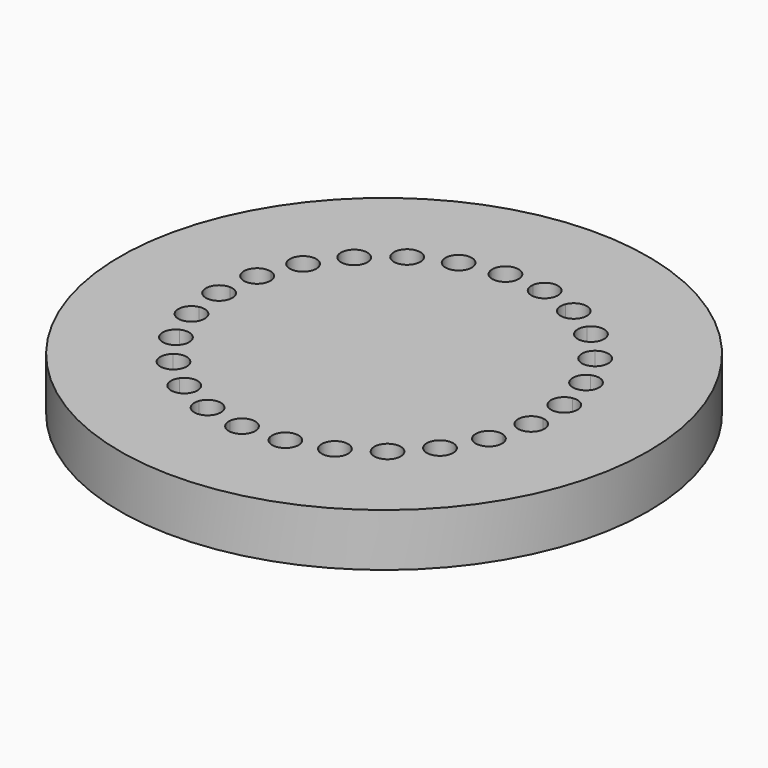
from build123d import *

# Parameters (mm, degrees)
F0_R     = 5080
F1_DEPTH = 508


with BuildPart() as f1:
    # F0 (on Top) → F1 (new body, symmetric)
    with BuildSketch(Plane.XY):
        Circle(F0_R)
        with BuildLine():
            ThreePointArc((3171.693455, 144.864175), (3174.173256, 72.450953), (3175, 0))
            ThreePointArc((3175, 0), (3174.173256, -72.450953), (3171.693455, -144.864175))
            ThreePointArc((3171.693455, -144.864175), (3337.094127, -226.182087), (3403.964177, -397.933017))
            ThreePointArc((3403.964177, -397.933017), (3314.092452, -591.78324), (3108.075128, -648.455087))
            ThreePointArc((3108.075128, -648.455087), (3075.251537, -789.590392), (3036.022617, -929.081088))
            ThreePointArc((3036.022617, -929.081088), (3159.220817, -1021.852435), (3206.040343, -1168.795455))
            ThreePointArc((3206.040343, -1168.795455), (3090.578542, -1381.687839), (2849.16501, -1401.029531))
            ThreePointArc((2849.16501, -1401.029531), (2782.273709, -1529.567915), (2709.587313, -1654.920419))
            ThreePointArc((2709.587313, -1654.920419), (2792.592595, -1746.400444), (2822.628957, -1866.218176))
            ThreePointArc((2822.628957, -1866.218176), (2679.392251, -2094.795281), (2411.231376, -2065.572136))
            ThreePointArc((2411.231376, -2065.572136), (2314.475392, -2173.437061), (2212.898672, -2276.775014))
            ThreePointArc((2212.898672, -2276.775014), (2261.035929, -2355.5767), (2277.821167, -2446.379546))
            ThreePointArc((2277.821167, -2446.379546), (2105.062752, -2687.036573), (1821.791207, -2600.327248))
            ThreePointArc((1821.791207, -2600.327248), (1701.250074, -2680.741163), (1577.16547, -2755.571462))
            ThreePointArc((1577.16547, -2755.571462), (1598.574117, -2812.469946), (1605.849251, -2872.825892))
            ThreePointArc((1605.849251, -2872.825892), (1402.287897, -3121.767537), (1117.881196, -2971.694236))
            ThreePointArc((1117.881196, -2971.694236), (981.128957, -3019.604439), (842.333161, -3061.22522))
            ThreePointArc((842.333161, -3061.22522), (847.279647, -3089.804826), (848.935674, -3118.762021))
            ThreePointArc((848.935674, -3118.762021), (613.775935, -3372.062326), (343.730599, -3156.338745))
            ThreePointArc((343.730599, -3156.338745), (199.3599, -3168.734863), (54.573961, -3174.530939))
            ThreePointArc((54.573961, -3174.530939), (-215.308691, -3422.233652), (-452.017857, -3142.658883))
            ThreePointArc((-452.017857, -3142.658883), (-594.935674, -3118.762021), (-736.614321, -3088.369204))
            ThreePointArc((-736.614321, -3088.369204), (-1059.619274, -3261.172794), (-1219.364368, -2931.514206))
            ThreePointArc((-1219.364368, -2931.514206), (-1351.849251, -2872.825892), (-1481.518417, -2808.153874))
            ThreePointArc((-1481.518417, -2808.153874), (-1837.35008, -2895.200457), (-1910.093731, -2536.171709))
            ThreePointArc((-1910.093731, -2536.171709), (-2023.821167, -2446.379546), (-2133.333262, -2351.491908))
            ThreePointArc((-2133.333262, -2351.491908), (-2499.633423, -2347.312026), (-2480.80488, -1981.472217))
            ThreePointArc((-2480.80488, -1981.472217), (-2568.628957, -1866.218176), (-2651.102932, -1747.077058))
            ThreePointArc((-2651.102932, -1747.077058), (-3004.855606, -1651.933348), (-2895.637935, -1302.269538))
            ThreePointArc((-2895.637935, -1302.269538), (-2952.040343, -1168.795455), (-3002.294054, -1032.886931))
            ThreePointArc((-3002.294054, -1032.886931), (-3321.27166, -852.757623), (-3128.527409, -541.240474))
            ThreePointArc((-3128.527409, -541.240474), (-3149.964177, -397.933017), (-3164.84, -253.796719))
            ThreePointArc((-3164.84, -253.796719), (-3429, 0), (-3164.84, 253.796719))
            ThreePointArc((-3164.84, 253.796719), (-3149.964177, 397.933017), (-3128.527409, 541.240474))
            ThreePointArc((-3128.527409, 541.240474), (-3321.27166, 852.757623), (-3002.294054, 1032.886931))
            ThreePointArc((-3002.294054, 1032.886931), (-2952.040343, 1168.795455), (-2895.637935, 1302.269538))
            ThreePointArc((-2895.637935, 1302.269538), (-3004.855606, 1651.933348), (-2651.102932, 1747.077058))
            ThreePointArc((-2651.102932, 1747.077058), (-2568.628957, 1866.218176), (-2480.80488, 1981.472217))
            ThreePointArc((-2480.80488, 1981.472217), (-2499.633423, 2347.312026), (-2133.333262, 2351.491908))
            ThreePointArc((-2133.333262, 2351.491908), (-2023.821167, 2446.379546), (-1910.093731, 2536.171709))
            ThreePointArc((-1910.093731, 2536.171709), (-1837.35008, 2895.200457), (-1481.518417, 2808.153874))
            ThreePointArc((-1481.518417, 2808.153874), (-1351.849251, 2872.825892), (-1219.364368, 2931.514206))
            ThreePointArc((-1219.364368, 2931.514206), (-1059.619274, 3261.172794), (-736.614321, 3088.369204))
            ThreePointArc((-736.614321, 3088.369204), (-594.935674, 3118.762021), (-452.017857, 3142.658883))
            ThreePointArc((-452.017857, 3142.658883), (-215.308691, 3422.233652), (54.573961, 3174.530939))
            ThreePointArc((54.573961, 3174.530939), (199.3599, 3168.734863), (343.730599, 3156.338745))
            ThreePointArc((343.730599, 3156.338745), (613.775935, 3372.062326), (848.935674, 3118.762021))
            ThreePointArc((848.935674, 3118.762021), (847.279647, 3089.804826), (842.333161, 3061.22522))
            ThreePointArc((842.333161, 3061.22522), (981.128957, 3019.604439), (1117.881196, 2971.694236))
            ThreePointArc((1117.881196, 2971.694236), (1402.287897, 3121.767537), (1605.849251, 2872.825892))
            ThreePointArc((1605.849251, 2872.825892), (1598.574117, 2812.469946), (1577.16547, 2755.571462))
            ThreePointArc((1577.16547, 2755.571462), (1701.250074, 2680.741163), (1821.791207, 2600.327248))
            ThreePointArc((1821.791207, 2600.327248), (2105.062752, 2687.036573), (2277.821167, 2446.379546))
            ThreePointArc((2277.821167, 2446.379546), (2261.035929, 2355.5767), (2212.898672, 2276.775014))
            ThreePointArc((2212.898672, 2276.775014), (2314.475392, 2173.437061), (2411.231376, 2065.572136))
            ThreePointArc((2411.231376, 2065.572136), (2679.392251, 2094.795281), (2822.628957, 1866.218176))
            ThreePointArc((2822.628957, 1866.218176), (2792.592595, 1746.400444), (2709.587313, 1654.920419))
            ThreePointArc((2709.587313, 1654.920419), (2782.273709, 1529.567915), (2849.16501, 1401.029531))
            ThreePointArc((2849.16501, 1401.029531), (3090.578542, 1381.687839), (3206.040343, 1168.795455))
            ThreePointArc((3206.040343, 1168.795455), (3159.220817, 1021.852435), (3036.022617, 929.081088))
            ThreePointArc((3036.022617, 929.081088), (3075.251537, 789.590392), (3108.075128, 648.455087))
            ThreePointArc((3108.075128, 648.455087), (3314.092452, 591.78324), (3403.964177, 397.933017))
            ThreePointArc((3403.964177, 397.933017), (3337.094127, 226.182087), (3171.693455, 144.864175))
        make_face(mode=Mode.SUBTRACT)
        with BuildLine():
            ThreePointArc((3171.693455, -144.864175), (3174.173256, -72.450953), (3175, 0))
            ThreePointArc((3175, 0), (3174.173256, 72.450953), (3171.693455, 144.864175))
            ThreePointArc((3171.693455, 144.864175), (2897.967043, 366.098375), (3108.075128, 648.455087))
            ThreePointArc((3108.075128, 648.455087), (3075.251537, 789.590392), (3036.022617, 929.081088))
            ThreePointArc((3036.022617, 929.081088), (2715.877115, 1075.291818), (2849.16501, 1401.029531))
            ThreePointArc((2849.16501, 1401.029531), (2782.273709, 1529.567915), (2709.587313, 1654.920419))
            ThreePointArc((2709.587313, 1654.920419), (2363.138641, 1716.920722), (2411.231376, 2065.572136))
            ThreePointArc((2411.231376, 2065.572136), (2314.475392, 2173.437061), (2212.898672, 2276.775014))
            ThreePointArc((2212.898672, 2276.775014), (1861.915474, 2250.669182), (1821.791207, 2600.327248))
            ThreePointArc((1821.791207, 2600.327248), (1701.250074, 2680.741163), (1577.16547, 2755.571462))
            ThreePointArc((1577.16547, 2755.571462), (1243.701311, 2642.99982), (1117.881196, 2971.694236))
            ThreePointArc((1117.881196, 2971.694236), (981.128957, 3019.604439), (842.333161, 3061.22522))
            ThreePointArc((842.333161, 3061.22522), (547.34082, 2869.261059), (343.730599, 3156.338745))
            ThreePointArc((343.730599, 3156.338745), (199.3599, 3168.734863), (54.573961, 3174.530939))
            ThreePointArc((54.573961, 3174.530939), (54.623565, 3171.63309), (54.6401, 3168.734863))
            ThreePointArc((54.6401, 3168.734863), (-186.304654, 2915.070595), (-452.017857, 3142.658883))
            ThreePointArc((-452.017857, 3142.658883), (-594.935674, 3118.762021), (-736.614321, 3088.369204))
            ThreePointArc((-736.614321, 3088.369204), (-729.511472, 3054.312382), (-727.128957, 3019.604439))
            ThreePointArc((-727.128957, 3019.604439), (-936.384093, 2769.576647), (-1219.364368, 2931.514206))
            ThreePointArc((-1219.364368, 2931.514206), (-1351.849251, 2872.825892), (-1481.518417, 2808.153874))
            ThreePointArc((-1481.518417, 2808.153874), (-1455.966727, 2746.711456), (-1447.250074, 2680.741163))
            ThreePointArc((-1447.250074, 2680.741163), (-1625.521245, 2438.292933), (-1910.093731, 2536.171709))
            ThreePointArc((-1910.093731, 2536.171709), (-2023.821167, 2446.379546), (-2133.333262, 2351.491908))
            ThreePointArc((-2133.333262, 2351.491908), (-2079.394447, 2269.629314), (-2060.475392, 2173.437061))
            ThreePointArc((-2060.475392, 2173.437061), (-2208.956886, 1942.391947), (-2480.80488, 1981.472217))
            ThreePointArc((-2480.80488, 1981.472217), (-2568.628957, 1866.218176), (-2651.102932, 1747.077058))
            ThreePointArc((-2651.102932, 1747.077058), (-2561.102534, 1654.465118), (-2528.273709, 1529.567915))
            ThreePointArc((-2528.273709, 1529.567915), (-2648.629617, 1313.569636), (-2895.637935, 1302.269538))
            ThreePointArc((-2895.637935, 1302.269538), (-2952.040343, 1168.795455), (-3002.294054, 1032.886931))
            ThreePointArc((-3002.294054, 1032.886931), (-2871.478132, 941.222841), (-2821.251537, 789.590392))
            ThreePointArc((-2821.251537, 789.590392), (-2915.589505, 592.04537), (-3128.527409, 541.240474))
            ThreePointArc((-3128.527409, 541.240474), (-3149.964177, 397.933017), (-3164.84, 253.796719))
            ThreePointArc((-3164.84, 253.796719), (-2991.837995, 175.976362), (-2921, 0))
            ThreePointArc((-2921, 0), (-2991.837995, -175.976362), (-3164.84, -253.796719))
            ThreePointArc((-3164.84, -253.796719), (-3149.964177, -397.933017), (-3128.527409, -541.240474))
            ThreePointArc((-3128.527409, -541.240474), (-2915.589505, -592.04537), (-2821.251537, -789.590392))
            ThreePointArc((-2821.251537, -789.590392), (-2871.478132, -941.222841), (-3002.294054, -1032.886931))
            ThreePointArc((-3002.294054, -1032.886931), (-2952.040343, -1168.795455), (-2895.637935, -1302.269538))
            ThreePointArc((-2895.637935, -1302.269538), (-2648.629617, -1313.569636), (-2528.273709, -1529.567915))
            ThreePointArc((-2528.273709, -1529.567915), (-2561.102534, -1654.465118), (-2651.102932, -1747.077058))
            ThreePointArc((-2651.102932, -1747.077058), (-2568.628957, -1866.218176), (-2480.80488, -1981.472217))
            ThreePointArc((-2480.80488, -1981.472217), (-2208.956886, -1942.391947), (-2060.475392, -2173.437061))
            ThreePointArc((-2060.475392, -2173.437061), (-2079.394447, -2269.629314), (-2133.333262, -2351.491908))
            ThreePointArc((-2133.333262, -2351.491908), (-2023.821167, -2446.379546), (-1910.093731, -2536.171709))
            ThreePointArc((-1910.093731, -2536.171709), (-1625.521245, -2438.292933), (-1447.250074, -2680.741163))
            ThreePointArc((-1447.250074, -2680.741163), (-1455.966727, -2746.711456), (-1481.518417, -2808.153874))
            ThreePointArc((-1481.518417, -2808.153874), (-1351.849251, -2872.825892), (-1219.364368, -2931.514206))
            ThreePointArc((-1219.364368, -2931.514206), (-936.384093, -2769.576647), (-727.128957, -3019.604439))
            ThreePointArc((-727.128957, -3019.604439), (-729.511472, -3054.312382), (-736.614321, -3088.369204))
            ThreePointArc((-736.614321, -3088.369204), (-594.935674, -3118.762021), (-452.017857, -3142.658883))
            ThreePointArc((-452.017857, -3142.658883), (-186.304654, -2915.070595), (54.6401, -3168.734863))
            ThreePointArc((54.6401, -3168.734863), (54.623565, -3171.63309), (54.573961, -3174.530939))
            ThreePointArc((54.573961, -3174.530939), (199.3599, -3168.734863), (343.730599, -3156.338745))
            ThreePointArc((343.730599, -3156.338745), (547.34082, -2869.261059), (842.333161, -3061.22522))
            ThreePointArc((842.333161, -3061.22522), (981.128957, -3019.604439), (1117.881196, -2971.694236))
            ThreePointArc((1117.881196, -2971.694236), (1243.701311, -2642.99982), (1577.16547, -2755.571462))
            ThreePointArc((1577.16547, -2755.571462), (1701.250074, -2680.741163), (1821.791207, -2600.327248))
            ThreePointArc((1821.791207, -2600.327248), (1861.915474, -2250.669182), (2212.898672, -2276.775014))
            ThreePointArc((2212.898672, -2276.775014), (2314.475392, -2173.437061), (2411.231376, -2065.572136))
            ThreePointArc((2411.231376, -2065.572136), (2363.138641, -1716.920722), (2709.587313, -1654.920419))
            ThreePointArc((2709.587313, -1654.920419), (2782.273709, -1529.567915), (2849.16501, -1401.029531))
            ThreePointArc((2849.16501, -1401.029531), (2715.877115, -1075.291818), (3036.022617, -929.081088))
            ThreePointArc((3036.022617, -929.081088), (3075.251537, -789.590392), (3108.075128, -648.455087))
            ThreePointArc((3108.075128, -648.455087), (2897.967043, -366.098375), (3171.693455, -144.864175))
        make_face()
    extrude(amount=F1_DEPTH, both=True)


solid = f1.part
